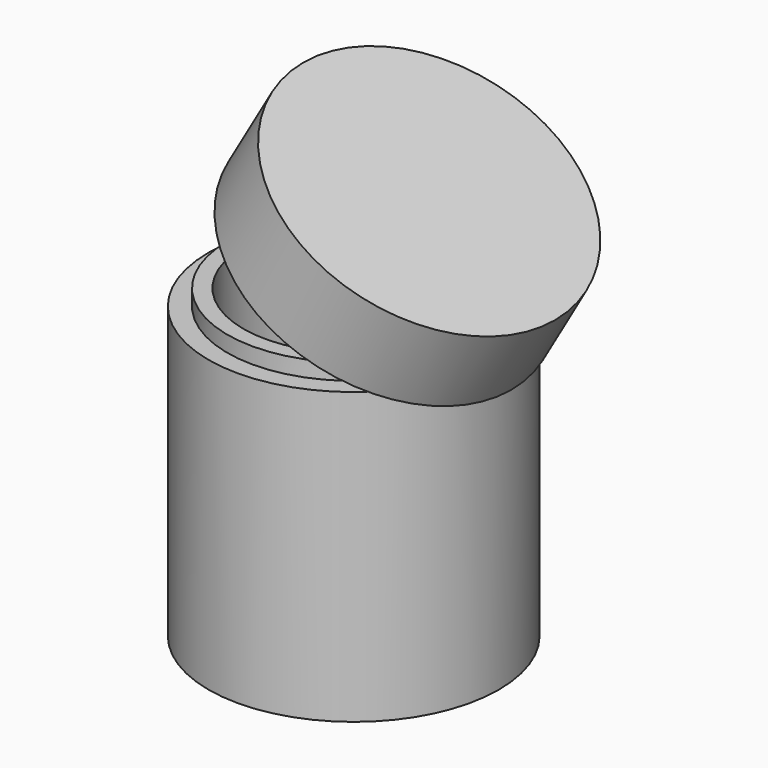
from build123d import *

# Parameters (mm, degrees)
BODY002_PLACEMENT_ANGLE = 30


with BuildPart() as body002:
    # Sketch → Revolution (revolve)
    with BuildSketch(Plane.XZ):
        Polygon((0, 15), (-25, 15), (-25, 0), (-22, 0), (-22, 3), (-19, 3), (-19, 13), (0, 13), align=None)
    revolve(axis=Axis((0, 0, 0), (0, 0, 1)))


with BuildPart() as body002_1:
    # Body002 placement: moved
    add(body002.part.moved(Location((81.5, 0, 8.660254))).rotate(Axis((81.5, 0, 8.660254), (0, 1, 0)), BODY002_PLACEMENT_ANGLE))


with BuildPart() as body003:
    # Sketch001 → Revolution001 (revolve)
    with BuildSketch(Plane.XZ):
        Polygon((0, -50), (-25, -50), (-25, 0), (-21.75, 0), (-21.75, 2.75), (-19, 2.75), (-19, -48), (0, -48), align=None)
    revolve(axis=Axis((0, 0, 0), (0, 0, 1)))


with BuildPart() as body003_1:
    # Body003 placement: moved
    add(body003.part.moved(Location((76, 0, 0))))


solid = Compound([body002_1.part, body003_1.part])
